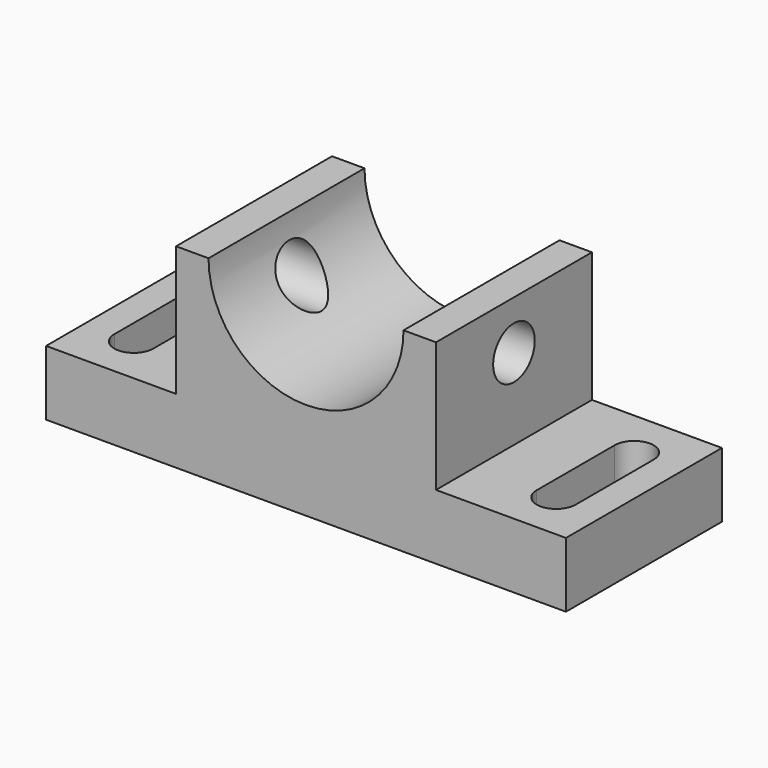
from build123d import *

# Parameters (mm, degrees)
F0_W     = 160
F0_H     = 60
F1_DEPTH = 20
F3_DEPTH = 20.001
F4_W     = 80
F4_H     = 60
F5_DEPTH = 40
F6_R     = 8
F7_DEPTH = 120.001
F9_DEPTH = 60.001


with BuildPart() as f1:
    # F0 (on Top) → F1 (new body)
    with BuildSketch(Plane.XY):
        Rectangle(F0_W, F0_H)
    extrude(amount=F1_DEPTH)

    # F2 (on face) → F3 (cut, through all)
    with BuildSketch(Plane.XY.offset(20)):
        with BuildLine():
            ThreePointArc((-71, -15), (-65, -21), (-59, -15))
            Line((-59, -15), (-59, 15))
            ThreePointArc((-59, 15), (-65, 21), (-71, 15))
            Line((-71, 15), (-71, -15))
        make_face()
        with BuildLine():
            ThreePointArc((59, -15), (65, -21), (71, -15))
            Line((71, -15), (71, 15))
            ThreePointArc((71, 15), (65, 21), (59, 15))
            Line((59, 15), (59, -15))
        make_face()
    extrude(amount=-F3_DEPTH, mode=Mode.SUBTRACT)

    # F4 (on face) → F5 (join)
    with BuildSketch(Plane.XY.offset(20)):
        Rectangle(F4_W, F4_H)
    extrude(amount=F5_DEPTH)

    # F6 (on face) → F7 (cut, through all)
    with BuildSketch(Plane.YZ.offset(40)):
        with Locations((0, 45)):
            Circle(F6_R)
    extrude(amount=-F7_DEPTH, mode=Mode.SUBTRACT)

    # F8 (on face) → F9 (cut, through all)
    with BuildSketch(Plane.XZ.offset(30)):
        with BuildLine():
            Line((-30, 60), (30, 60))
            ThreePointArc((30, 60), (0, 90), (-30, 60))
        make_face()
        with BuildLine():
            ThreePointArc((-30, 60), (0, 30), (30, 60))
            Line((30, 60), (-30, 60))
        make_face()
    extrude(amount=-F9_DEPTH, mode=Mode.SUBTRACT)


solid = f1.part
